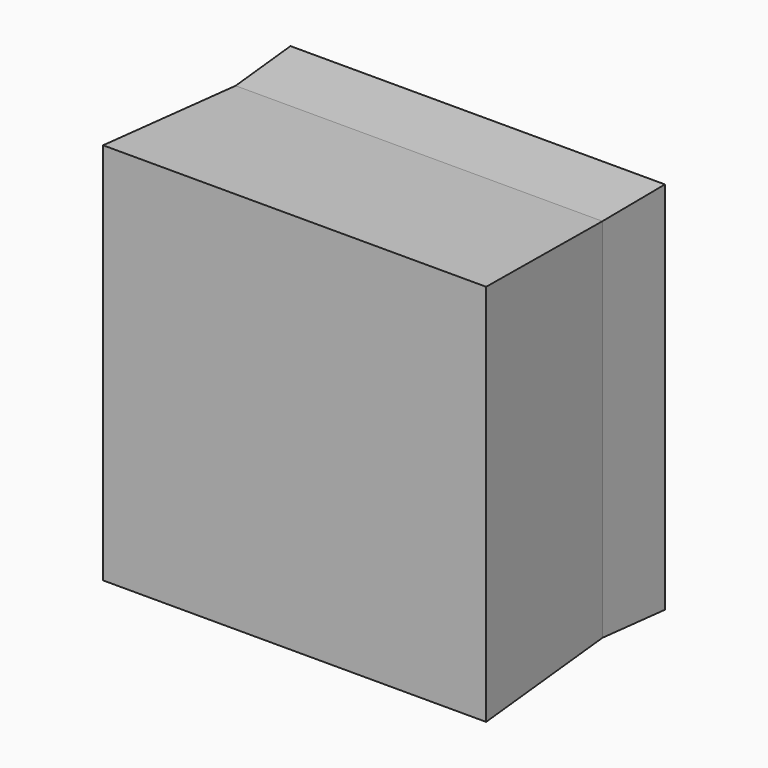
from build123d import *

# Parameters (mm, degrees)
F0_W          = 127
F0_H          = 127
F1_DEPTH      = 53.848
F1_TAPER      = -3
F1_DEPTH_BACK = 25.4
F1_TAPER_BACK = -3


with BuildPart() as f1:
    # F0 (on Front) → F1 (new body, two sides)
    with BuildSketch(Plane.XZ) as f1_sk:
        Rectangle(F0_W, F0_H)
    extrude(amount=F1_DEPTH, taper=F1_TAPER)
    extrude(f1_sk.sketch, amount=-F1_DEPTH_BACK, taper=F1_TAPER_BACK)


solid = f1.part
